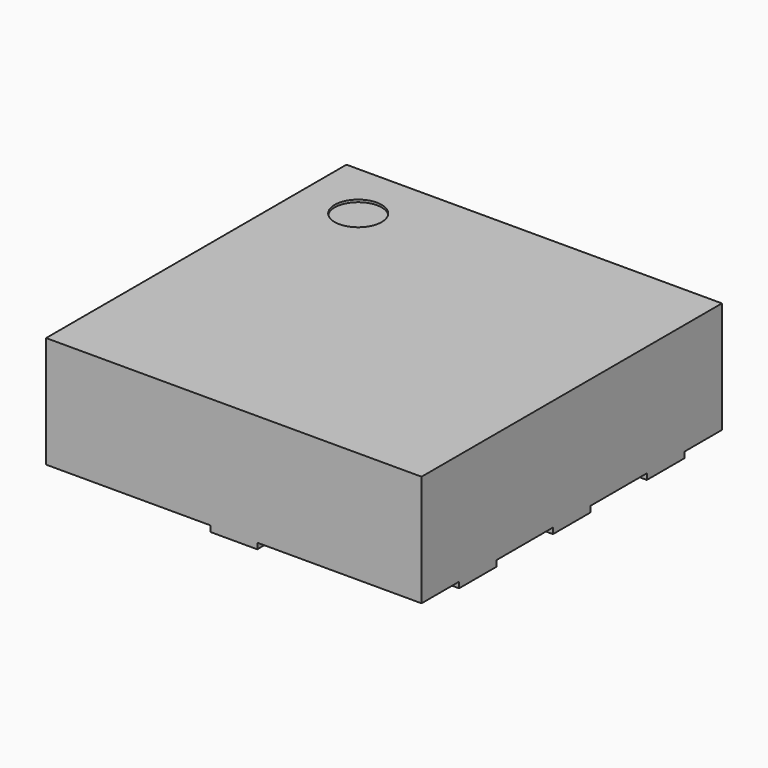
from build123d import *

# Parameters (mm, degrees)
SKETCH_W        = 1.6
SKETCH_H        = 1.6
PAD_DEPTH       = 0.5
SKETCH001_W     = 1.6
SKETCH001_H     = 1.6
POCKET_DEPTH    = 0.025
SKETCH002_W     = 0.4
SKETCH002_H     = 0.2
SKETCH002_W_2   = 0.5
SKETCH002_W_3   = 0.2
SKETCH002_H_2   = 0.4
SKETCH002_W_4   = 0.3
SKETCH002_H_3   = 0.3
PAD001_DEPTH    = 0.025
SKETCH003_R     = 0.1
POCKET001_DEPTH = 0.01


with BuildPart() as part:
    # Sketch → Pad (new body)
    with BuildSketch(Plane.XY):
        Rectangle(SKETCH_W, SKETCH_H)
    extrude(amount=PAD_DEPTH)

    # Sketch001 → Pocket (cut)
    with BuildSketch(Plane(origin=(0, 0, 0), x_dir=(1, 0, 0), z_dir=(0, 0, -1))):
        Rectangle(SKETCH001_W, SKETCH001_H)
    extrude(amount=-POCKET_DEPTH, mode=Mode.SUBTRACT)

    # Sketch002 → Pad001 (new body)
    with BuildSketch(Plane(origin=(0, 0, 0.025), x_dir=(1, 0, 0), z_dir=(0, 0, -1))):
        with Locations((-0.6, 0.5)):
            Rectangle(SKETCH002_W, SKETCH002_H)
        with Locations((-0.6, 0)):
            Rectangle(SKETCH002_W, SKETCH002_H)
        Polygon((-0.8, -0.4), (-0.4, -0.4), (-0.4, -0.6), (-0.5, -0.6), (-0.5, -0.7), (-0.8, -0.7), align=None)
        with Locations((0.55, 0.5)):
            Rectangle(SKETCH002_W_2, SKETCH002_H)
        with Locations((0.55, 0)):
            Rectangle(SKETCH002_W_2, SKETCH002_H)
        with Locations((0.55, -0.5)):
            Rectangle(SKETCH002_W_2, SKETCH002_H)
        with Locations((0, -0.6)):
            Rectangle(SKETCH002_W_3, SKETCH002_H_2)
        with Locations((0, 0.6)):
            Rectangle(SKETCH002_W_3, SKETCH002_H_2)
        Rectangle(SKETCH002_W_4, SKETCH002_H_3)
    extrude(amount=PAD001_DEPTH)

    # Sketch003 → Pocket001 (cut)
    with BuildSketch(Plane.XY.offset(0.5)):
        with Locations((-0.55, 0.55)):
            Circle(SKETCH003_R)
    extrude(amount=-POCKET001_DEPTH, mode=Mode.SUBTRACT)


solid = part.part
